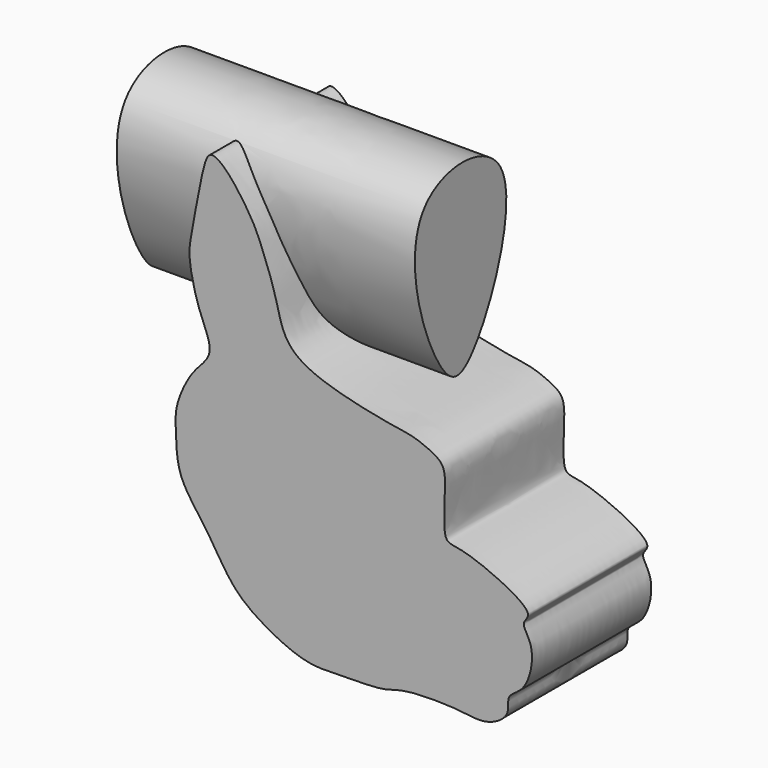
from build123d import *

# Parameters (mm, degrees)
F1_DEPTH = 25.4
F3_DEPTH = 50.8


with BuildPart() as f1:
    # F0 (on Front) → F1 (new body)
    with BuildSketch(Plane.XZ):
        with BuildLine():
            add(Edge.make_bspline(
                [(8.0010006204, 4.3777404353), (8.3582794748, 3.4244080955), (10.7502548196, 3.959918744), (24.1644312283, -1.9762769872), (20.4238697881, -4.2847478552), (23.4956450566, -7.1367006993), (21.9543309608, -14.541007216), (18.1087661941, -15.7356305944), (19.2025905799, -19.0806243774), (14.7838821715, -21.7415074168), (10.2325065168, -20.6085910053), (0.5043169085, -20.6762905731), (-2.358317402, -22.2421417718), (-10.3623459761, -22.1391526053), (-16.0368723254, -22.5975457088), (-24.6681530674, -18.238314794), (-29.1172649205, -14.0955665881), (-32.8801171455, -7.2275308891), (-37.8715900791, -1.4996114463), (-37.9391857188, 5.2317630999), (-38.1898406876, 9.0186470796), (-36.0646232716, 13.7708874926), (-34.252558111, 16.1305927367), (-31.2025536812, 19.0658459809), (-34.3117540389, 24.6932067787), (-35.8569654484, 31.8870694934), (-35.5434314916, 34.8753814941), (-34.2581921295, 41.5499185697), (-33.6642449839, 44.5833466968), (-32.9496008871, 47.80392771), (-31.9198831418, 49.1008579771), (-29.1194803029, 47.3940518971), (-25.1431244993, 41.6945477963), (-23.6877106588, 38.5996719346), (-21.5378348498, 32.9413049135), (-20.6416662695, 29.5696929359), (-19.4716791609, 24.6927170159), (-14.2715422308, 20.7089983324), (-1.0432571992, 18.0575850817), (2.3363760609, 17.7734787212), (6.8193262123, 15.9833313846), (8.4199954719, 13.6410645852), (7.3943273942, 5.9965353883), (8.0010006204, 4.3777404353)],
                knots=[0, 0, 0, 0, 0.0191506465, 0.0576347762, 0.0722925774, 0.0919208279, 0.1204469473, 0.1399690945, 0.157343632, 0.1794117799, 0.2038818654, 0.2370080664, 0.257287305, 0.2869291212, 0.3137479724, 0.3466082554, 0.3737013771, 0.4038241152, 0.433766902, 0.4610579406, 0.4824879986, 0.5066042103, 0.5258671901, 0.545965076, 0.5725540611, 0.6019012083, 0.6213831193, 0.6491463014, 0.6693173169, 0.6886219127, 0.7004986642, 0.7184335073, 0.7471715463, 0.7682916939, 0.794402182, 0.8152751485, 0.8382978032, 0.8660470342, 0.9055785434, 0.9266986891, 0.9490661651, 0.9674814662, 1, 1, 1, 1], degree=3))
        make_face()
    extrude(amount=F1_DEPTH)

    # F2 (on Right) → F3 (join)
    with BuildSketch(Plane.YZ):
        with BuildLine():
            add(Edge.make_bspline(
                [(-20.1288312674, 48.6780181527), (-24.7016401699, 42.3172314995), (-17.5785524504, 21.4959066), (-9.1620738317, 19.3612913084), (5.3950247427, 53.7712013521), (-16.5116196672, 53.7095669793), (-20.1288312674, 48.6780181527)],
                knots=[0, 0, 0, 0, 0.3063584548, 0.4442356973, 0.757662439, 1, 1, 1, 1], degree=3))
        make_face()
    extrude(amount=-F3_DEPTH)


solid = f1.part
